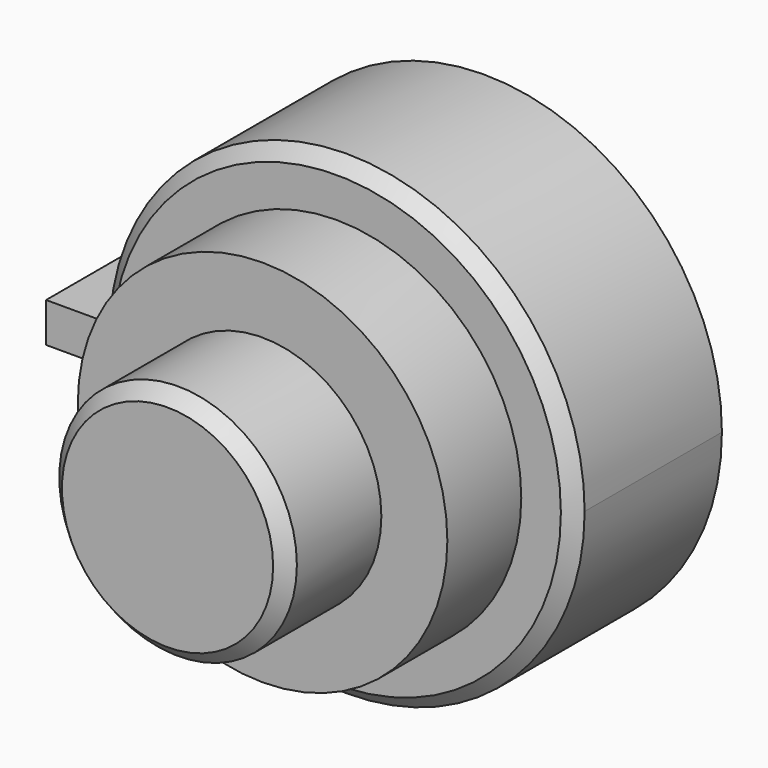
from build123d import *

# Parameters (mm, degrees)
F0_R          = 18
F1_DEPTH      = 7
F2_R          = 14
F3_DEPTH      = 14
F4_R          = 9
F5_DEPTH      = 23
F6_W          = 22
F6_H          = 3
F7_DEPTH      = 7
F7_DEPTH_BACK = 11
F8_SIZE       = 1
F9_SIZE       = 1


with BuildPart() as f1:
    # F0 (on Front) → F1 (new body, symmetric)
    with BuildSketch(Plane.XZ):
        Circle(F0_R)
    extrude(amount=F1_DEPTH, both=True)

    # F2 (on Front) → F3 (join)
    with BuildSketch(Plane.XZ):
        Circle(F2_R)
    extrude(amount=F3_DEPTH)

    # F4 (on Front) → F5 (join)
    with BuildSketch(Plane.XZ):
        Circle(F4_R)
    extrude(amount=F5_DEPTH)

    # F6 (on Front) → F7 (join, two sides)
    with BuildSketch(Plane.XZ) as f7_sk:
        with Locations((-11, 0)):
            Rectangle(F6_W, F6_H)
    extrude(amount=F7_DEPTH)
    extrude(f7_sk.sketch, amount=-F7_DEPTH_BACK)

    # F8
    f8_edges = [f1.edges().sort_by_distance(p)[0] for p in [
        (-9, -23, 0),
    ]]
    chamfer(f8_edges, length=F8_SIZE)

    # F9
    f9_edges = [f1.edges().sort_by_distance(p)[0] for p in [
        (0.750653, -7, -17.984341),
        (0.750653, -7, 17.984341),
    ]]
    chamfer(f9_edges, length=F9_SIZE)


solid = f1.part
